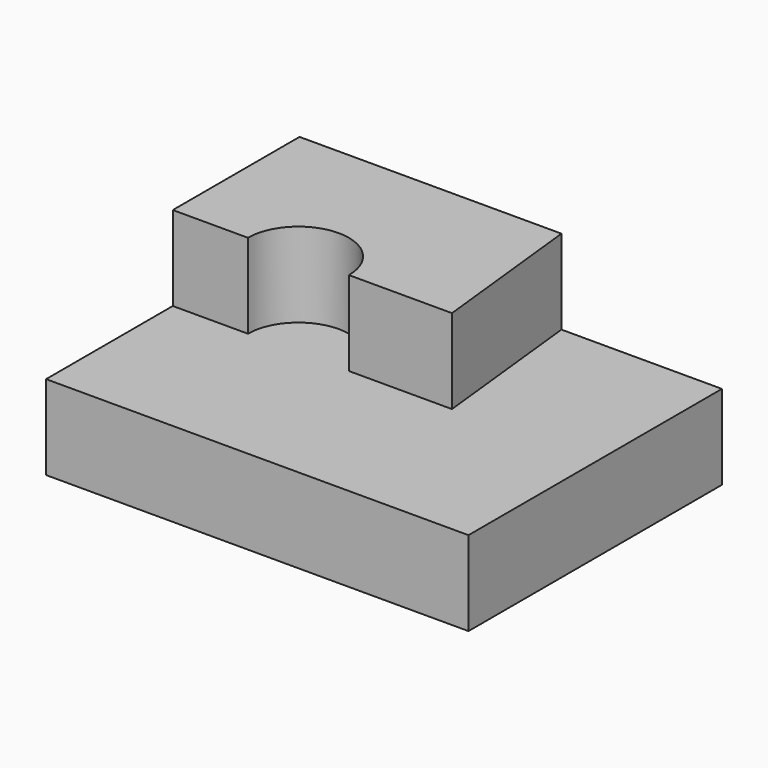
from build123d import *

# Parameters (mm, degrees)
F0_W     = 127
F0_H     = 95.25
F1_DEPTH = 25.4
F2_W     = 127
F2_H     = 47.6253371388
F3_DEPTH = 25.4
F5_DEPTH = 25.4


with BuildPart() as f1:
    # F0 (on Top) → F1 (new body)
    with BuildSketch(Plane.XY):
        Rectangle(F0_W, F0_H)
    extrude(amount=F1_DEPTH)

    # F2 (on face) → F3 (join)
    with BuildSketch(Plane.XY.offset(25.4)):
        with Locations((0, 23.8123314306)):
            Rectangle(F2_W, F2_H)
    extrude(amount=F3_DEPTH)

    # F4 (on face) → F5 (cut)
    with BuildSketch(Plane.XY.offset(50.8)):
        with BuildLine():
            Line((-40.9172700879, -0.0003371388), (-10.551281071, -0.0003371388))
            ThreePointArc((-10.551281071, -0.0003371388), (-25.7342755795, 15.1826573697), (-40.9172700879, -0.0003371388))
        make_face()
        Polygon((63.5, 47.625), (15.2478702366, 47.625), (20.4385407269, -0.0003371388), (63.5, -0.0003371388), align=None)
    extrude(amount=-F5_DEPTH, mode=Mode.SUBTRACT)


solid = f1.part
